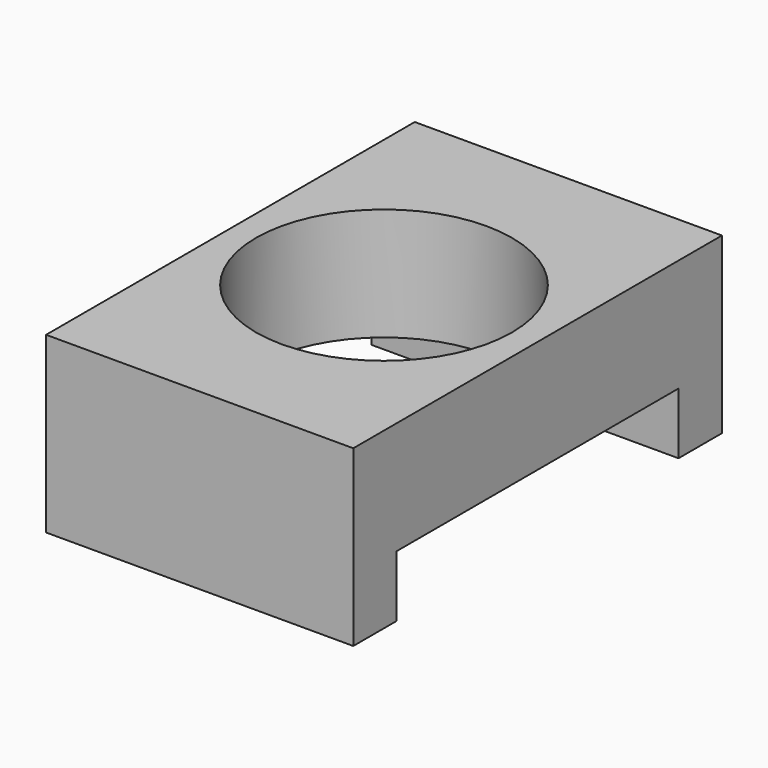
from build123d import *

# Parameters (mm, degrees)
F0_W     = 38.1
F0_H     = 57.15
F1_DEPTH = 13.97
F2_R     = 15.875
F3_DEPTH = 25.4
F4_W     = 38.1
F4_H     = 6.731
F5_DEPTH = 7.62


with BuildPart() as f1:
    # F0 (on Top) → F1 (new body)
    with BuildSketch(Plane.XY):
        Rectangle(F0_W, F0_H)
    extrude(amount=F1_DEPTH)

    # F2 (on face) → F3 (cut)
    with BuildSketch(Plane.XY.offset(13.97)):
        Circle(F2_R)
    extrude(amount=-F3_DEPTH, mode=Mode.SUBTRACT)

    # F4 (on face) → F5 (join)
    with BuildSketch(Plane(origin=(0, 0, 0), x_dir=(1, 0, 0), z_dir=(0, 0, -1))):
        with Locations((0, 25.2095)):
            Rectangle(F4_W, F4_H)
        with Locations((0, -25.2095)):
            Rectangle(F4_W, F4_H)
    extrude(amount=F5_DEPTH)


solid = f1.part
